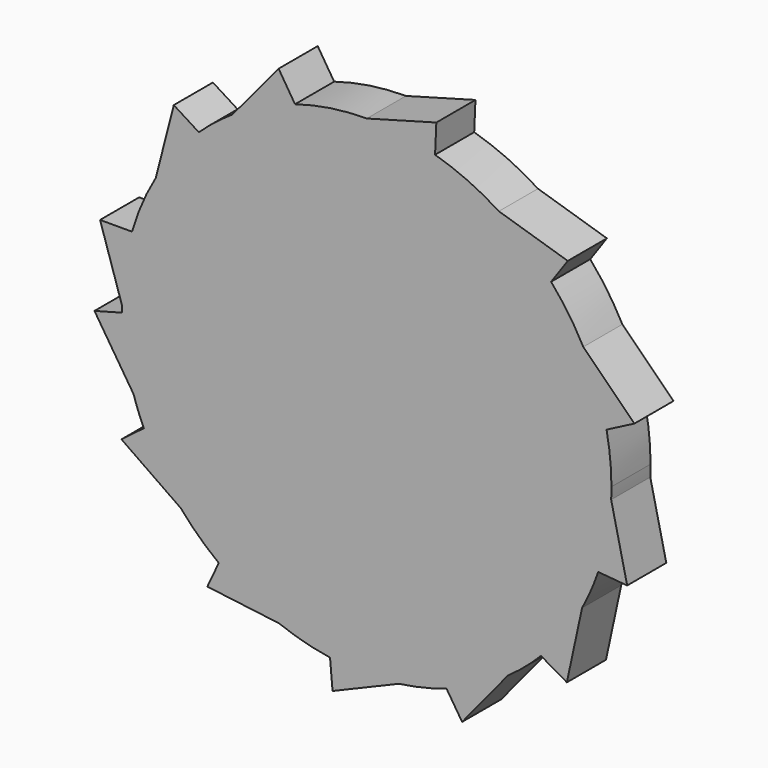
from build123d import *

# Parameters (mm, degrees)
F1_DEPTH = 10


with BuildPart() as f1:
    # F0 (on Front) → F1 (new body)
    with BuildSketch(Plane.XZ):
        with BuildLine():
            ThreePointArc((-34.337593, 36.377659), (-39.128216, 31.167084), (-43.135461, 25.332518))
            ThreePointArc((-43.135461, 25.332518), (-45.923647, 19.834894), (-48.014505, 14.036086))
            ThreePointArc((-48.014505, 14.036086), (-49.519107, 7.089604), (-50.024038, 0))
            ThreePointArc((-50.024038, 0), (-50.020463, -0.5981), (-50.009736, -1.196115))
            ThreePointArc((-50.009736, -1.196115), (-49.341893, -8.232983), (-47.688879, -15.105469))
            ThreePointArc((-47.688879, -15.105469), (-46.725007, -17.865557), (-45.601542, -20.564625))
            ThreePointArc((-45.601542, -20.564625), (-42.251133, -26.781453), (-38.058637, -32.464513))
            ThreePointArc((-38.058637, -32.464513), (-34.360112, -36.35639), (-30.265785, -39.82947))
            ThreePointArc((-30.265785, -39.82947), (-24.362413, -43.6907), (-17.974608, -46.683165))
            ThreePointArc((-17.974608, -46.683165), (-12.820651, -48.353235), (-7.516311, -49.456137))
            ThreePointArc((-7.516311, -49.456137), (-0.470356, -50.021827), (6.584991, -49.588732))
            ThreePointArc((6.584991, -49.588732), (11.499056, -48.684455), (16.298397, -47.294467))
            ThreePointArc((16.298397, -47.294467), (22.803128, -44.524395), (28.852373, -40.864961))
            ThreePointArc((28.852373, -40.864961), (32.363977, -38.144166), (35.620358, -35.122564))
            ThreePointArc((35.620358, -35.122564), (40.222649, -29.741266), (44.019019, -23.764057))
            ThreePointArc((44.019019, -23.764057), (45.828281, -20.054253), (47.32555, -16.207922))
            ThreePointArc((47.32555, -16.207922), (49.138207, -9.372354), (49.968834, -2.349478))
            ThreePointArc((49.968834, -2.349478), (50.010235, -1.175063), (50.024038, 0))
            ThreePointArc((50.024038, 0), (49.77315, 5.003793), (49.023002, 9.957394))
            ThreePointArc((49.023002, 9.957394), (47.119504, 16.797522), (44.266789, 23.299265))
            ThreePointArc((44.266789, 23.299265), (41.258147, 28.287272), (37.690051, 32.891708))
            ThreePointArc((37.690051, 32.891708), (32.67536, 37.877768), (27.007686, 42.10688))
            ThreePointArc((27.007686, 42.10688), (20.698662, 45.540858), (13.962862, 48.03585))
            ThreePointArc((13.962862, 48.03585), (7.051851, 49.524497), (0, 50.024038))
            ThreePointArc((0, 50.024038), (-7.417006, 49.471127), (-14.670053, 47.824616))
            ThreePointArc((-14.670053, 47.824616), (-21.285063, 45.269753), (-27.47235, 41.805196))
            ThreePointArc((-27.47235, 41.805196), (-31.023891, 39.241847), (-34.337593, 36.377659))
        make_face()
        with BuildLine():
            Line((-39.461789, 39.611867), (-43.135461, 25.332518))
            ThreePointArc((-43.135461, 25.332518), (-39.128216, 31.167084), (-34.337593, 36.377659))
            Line((-34.337593, 36.377659), (-39.461789, 39.611867))
        make_face()
        with BuildLine():
            ThreePointArc((-50.024038, 0), (-49.519107, 7.089604), (-48.014505, 14.036086))
            Line((-48.014505, 14.036086), (-54.538898, 14.036086))
            Line((-54.538898, 14.036086), (-50.024038, 0))
        make_face()
        with BuildLine():
            Line((-18.031633, 53.130766), (-27.47235, 41.805196))
            ThreePointArc((-27.47235, 41.805196), (-21.285063, 45.269753), (-14.670053, 47.824616))
            Line((-14.670053, 47.824616), (-18.031633, 53.130766))
        make_face()
        with BuildLine():
            ThreePointArc((-47.688879, -15.105469), (-49.341893, -8.232983), (-50.009736, -1.196115))
            Line((-50.009736, -1.196115), (-55.682706, -2.716183))
            Line((-55.682706, -2.716183), (-47.688879, -15.105469))
        make_face()
        with BuildLine():
            Line((14.219069, 53.924521), (0, 50.024038))
            ThreePointArc((0, 50.024038), (7.051851, 49.524497), (13.962862, 48.03585))
            Line((13.962862, 48.03585), (14.219069, 53.924521))
        make_face()
        with BuildLine():
            ThreePointArc((-38.058637, -32.464513), (-42.251133, -26.781453), (-45.601542, -20.564625))
            Line((-45.601542, -20.564625), (-50.161836, -24.043809))
            Line((-50.161836, -24.043809), (-38.058637, -32.464513))
        make_face()
        with BuildLine():
            Line((41.094992, 37.754468), (27.007686, 42.10688))
            ThreePointArc((27.007686, 42.10688), (32.67536, 37.877768), (37.690051, 32.891708))
            Line((37.690051, 32.891708), (41.094992, 37.754468))
        make_face()
        with BuildLine():
            ThreePointArc((-17.974608, -46.683165), (-24.362413, -43.6907), (-30.265785, -39.82947))
            Line((-30.265785, -39.82947), (-32.603685, -44.843111))
            Line((-32.603685, -44.843111), (-17.974608, -46.683165))
        make_face()
        with BuildLine():
            Line((54.722803, 12.903715), (44.266789, 23.299265))
            ThreePointArc((44.266789, 23.299265), (47.119504, 16.797522), (49.023002, 9.957394))
            Line((49.023002, 9.957394), (54.722803, 12.903715))
        make_face()
        with BuildLine():
            ThreePointArc((6.584991, -49.588732), (-0.470356, -50.021827), (-7.516311, -49.456137))
            Line((-7.516311, -49.456137), (-7.004188, -55.309737))
            Line((-7.004188, -55.309737), (6.584991, -49.588732))
        make_face()
        with BuildLine():
            ThreePointArc((28.852373, -40.864961), (22.803128, -44.524395), (16.298397, -47.294467))
            Line((16.298397, -47.294467), (19.493974, -52.258645))
            Line((19.493974, -52.258645), (28.852373, -40.864961))
        make_face()
        with BuildLine():
            Line((53.243188, -16.725649), (49.968834, -2.349478))
            ThreePointArc((49.968834, -2.349478), (49.138207, -9.372354), (47.32555, -16.207922))
            Line((47.32555, -16.207922), (53.243188, -16.725649))
        make_face()
        with BuildLine():
            ThreePointArc((44.019019, -23.764057), (40.222649, -29.741266), (35.620358, -35.122564))
            Line((35.620358, -35.122564), (40.910959, -38.177094))
            Line((40.910959, -38.177094), (44.019019, -23.764057))
        make_face()
    extrude(amount=F1_DEPTH)


solid = f1.part
